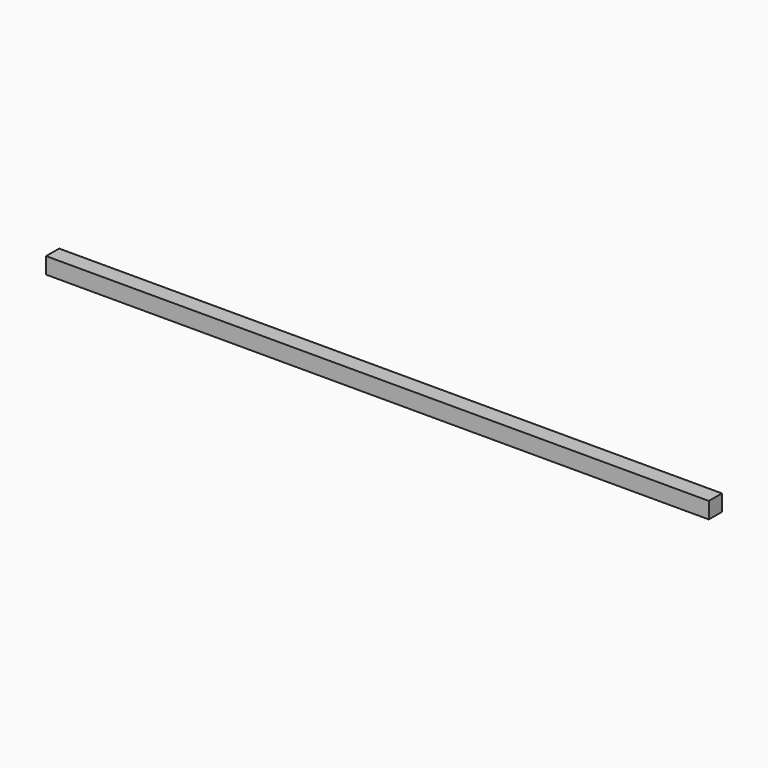
from build123d import *

# Parameters (mm, degrees)
SKETCH_W  = 772.5
SKETCH_H  = 19.05
PAD_DEPTH = 19.05


with BuildPart() as part:
    # Sketch → Pad (new body)
    with BuildSketch(Plane.XY):
        with Locations((386.25, 9.525)):
            Rectangle(SKETCH_W, SKETCH_H)
    extrude(amount=PAD_DEPTH)


solid = part.part
